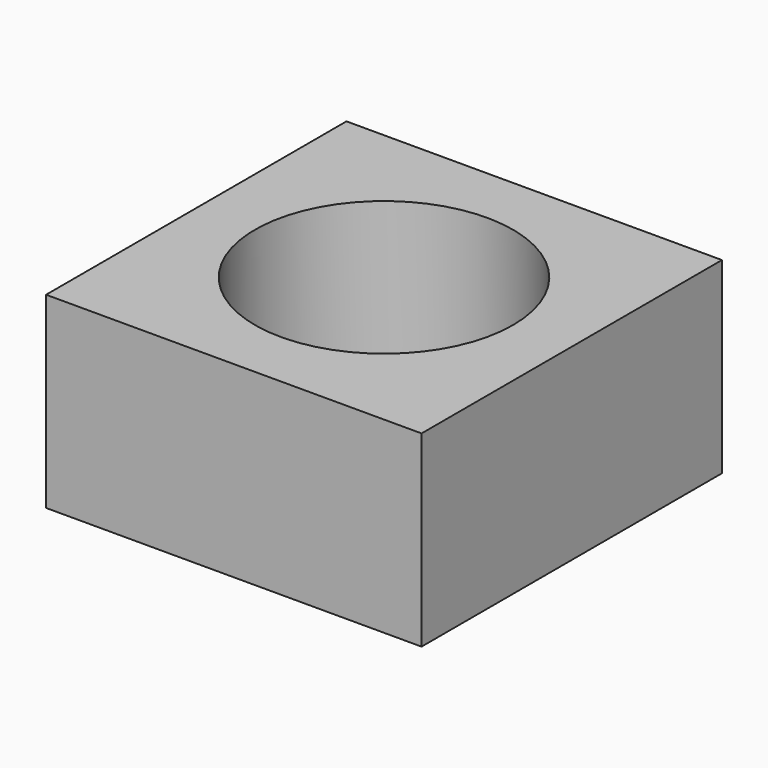
from build123d import *

# Parameters (mm, degrees)
F0_W     = 50.8
F0_H     = 50.8
F1_DEPTH = 12.7
F2_W     = 50.8
F2_H     = 50.8
F2_R     = 17.4625
F3_DEPTH = 25.4


with BuildPart() as f1:
    # F0 (on Top) → F1 (new body, symmetric)
    with BuildSketch(Plane.XY):
        Rectangle(F0_W, F0_H)
    extrude(amount=F1_DEPTH, both=True)

    # F2 (on face) → F3 (intersect, through all)
    with BuildSketch(Plane.XY.offset(12.7)):
        Rectangle(F2_W, F2_H)
        Circle(F2_R, mode=Mode.SUBTRACT)
    extrude(amount=-F3_DEPTH, mode=Mode.INTERSECT)


solid = f1.part
